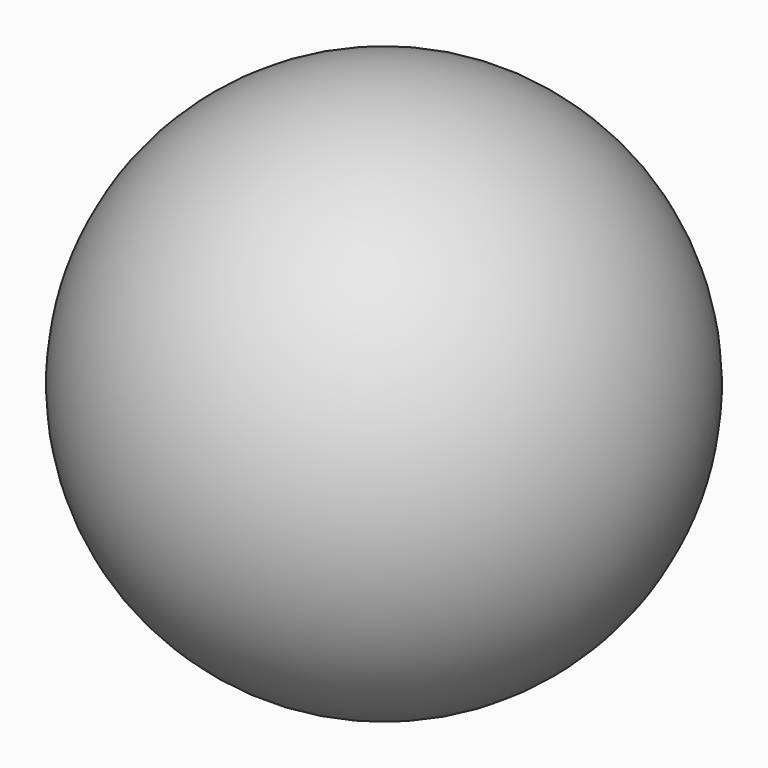
from build123d import *


with BuildPart() as f1:
    # F0 (on Top) → F1 (revolve)
    with BuildSketch(Plane.XY):
        with BuildLine():
            Line((-50.231844, 38.801841), (-32.42419, 38.801841))
            ThreePointArc((-32.42419, 38.801841), (-50.231844, 56.609495), (-68.039498, 38.801841))
            Line((-68.039498, 38.801841), (-50.231844, 38.801841))
        make_face()
    revolve(axis=Axis((-59.135671, 38.801841, 0), (-1, 0, 0)))


solid = f1.part
